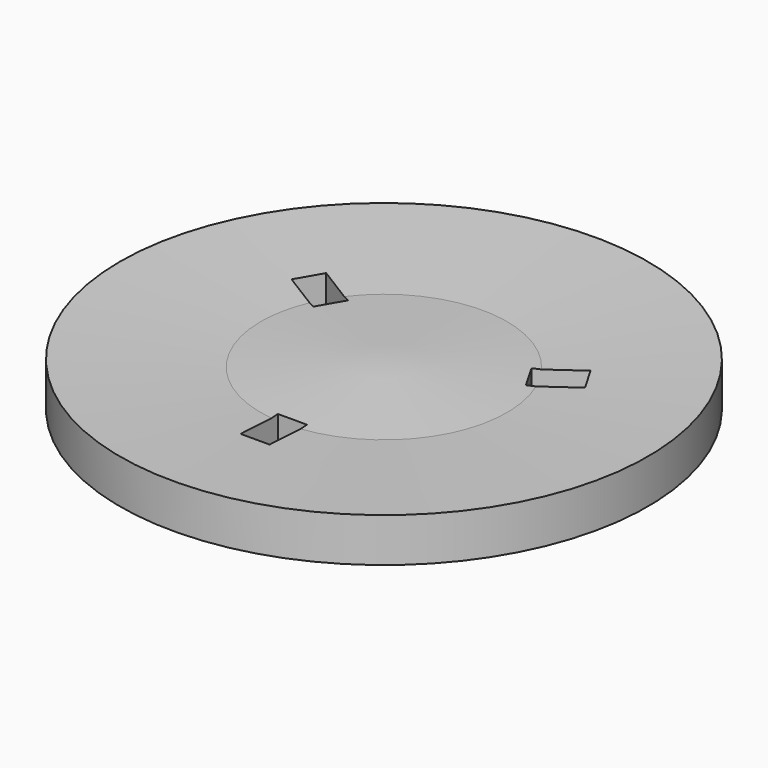
from build123d import *

# Parameters (mm, degrees)
F2_W     = 16.5
F2_H     = 26.5
F3_DEPTH = 22.0945586695


with BuildPart() as f1:
    # F0 (on Front) → F1 (revolve)
    with BuildSketch(Plane.XZ):
        Polygon((-150, 0), (-70, 0), (-70, 21), (-150, 25), align=None)
        Polygon((-70, 0), (0, 0), (0, 25), (-70, 21), align=None)
    revolve(axis=Axis((0, 0, 12.5), (0, 0, 1)))

    # F2 (on face) → F3 (cut, through all)
    with BuildSketch(Plane(origin=(0, 0, 0), x_dir=(1, 0, 0), z_dir=(0, 0, -1))):
        with Locations((0, 78.25)):
            Rectangle(F2_W, F2_H)
        Polygon((-52.166651246, -39.6447095812), (-60.416651246, -25.3552904188), (-83.3663244463, -38.6052904188), (-75.1163244463, -52.8947095812), align=None)
        Polygon((60.416651246, -25.3552904188), (52.166651246, -39.6447095812), (75.1163244463, -52.8947095812), (83.3663244463, -38.6052904188), align=None)
    extrude(amount=-F3_DEPTH, mode=Mode.SUBTRACT)


solid = f1.part
